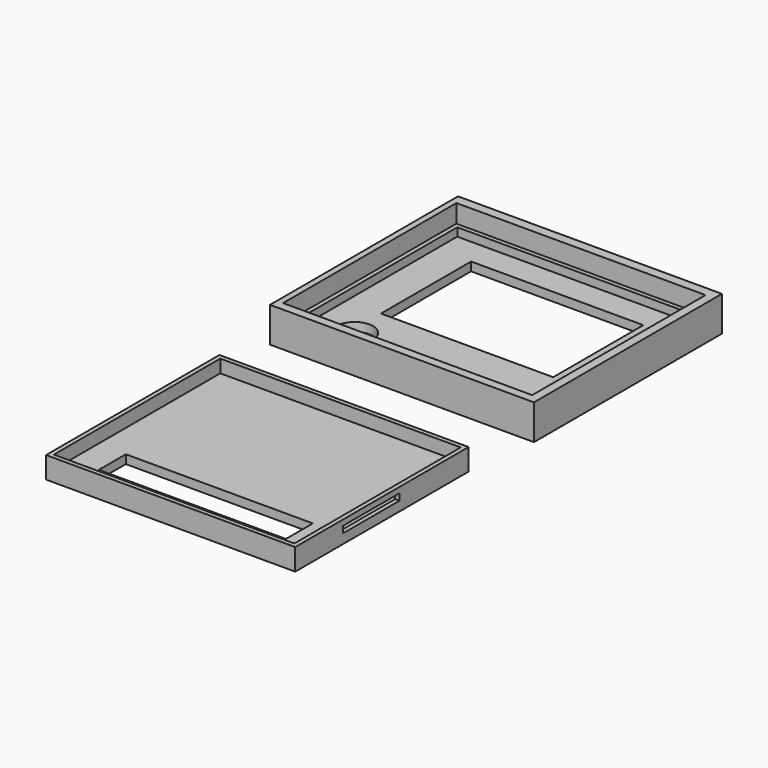
from build123d import *

# Parameters (mm, degrees)
F0_W          = 115
F0_H          = 100
F0_W_2        = 111
F0_H_2        = 96
F1_DEPTH      = 4
F2_DEPTH      = 10
F3_W          = 86.3381363451
F3_H          = 15.5545137823
F4_DEPTH      = 25.4
F5_W          = 32.6931924792
F5_H          = 3.029511543
F6_DEPTH      = 30.226
F6_DEPTH_BACK = 19.685
F7_W          = 121.8193949163
F7_H          = 108.4495782852
F7_W_2        = 115
F7_H_2        = 100
F8_DEPTH      = 8.382
F8_FACE_W     = 121.8193949163
F8_FACE_H     = 108.4495782852
F8_FACE_W_2   = 115
F8_FACE_H_2   = 100
F2_FACE1_W    = 115
F2_FACE1_H    = 100
F2_FACE1_W_2  = 111
F2_FACE1_H_2  = 96
F9_DEPTH      = 3.81
F11_W         = 121.8193949163
F11_H         = 108.4495782852
F11_W_2       = 111
F11_H_2       = 96
F11_W_3       = 79.5
F11_H_3       = 52
F11_R         = 8.5
F12_DEPTH     = 4
F14_ANGLE     = -180


with BuildPart() as f1:
    # F0 (on Top) → F1 (new body)
    with BuildSketch(Plane.XY):
        with Locations((-0.0673000515, -0.0127654523)):
            Rectangle(F0_W, F0_H)
        with Locations((-0.0673000515, -0.0127654523)):
            Rectangle(F0_W_2, F0_H_2, mode=Mode.SUBTRACT)
        with Locations((-0.0673000515, -0.0127654523)):
            Rectangle(F0_W_2, F0_H_2)
    extrude(amount=F1_DEPTH)

    # F0 (on Top) → F2 (join)
    with BuildSketch(Plane.XY):
        with Locations((-0.0673000515, -0.0127654523)):
            Rectangle(F0_W, F0_H)
        with Locations((-0.0673000515, -0.0127654523)):
            Rectangle(F0_W_2, F0_H_2, mode=Mode.SUBTRACT)
    extrude(amount=F2_DEPTH)

    # F3 (on face) → F4 (cut)
    with BuildSketch(Plane(origin=(0, 0, 0), x_dir=(1, 0, 0), z_dir=(0, 0, -1))):
        with Locations((0.4759114236, 30.3858797997)):
            Rectangle(F3_W, F3_H)
    extrude(amount=-F4_DEPTH, mode=Mode.SUBTRACT)

    # F5 (on face) → F6 (cut, two sides)
    with BuildSketch(Plane.YZ.offset(57.4326999485)) as f6_sk:
        with Locations((-6.2302281731, 5.9030133998)):
            Rectangle(F5_W, F5_H)
    extrude(amount=-F6_DEPTH, mode=Mode.SUBTRACT)
    extrude(f6_sk.sketch, amount=F6_DEPTH_BACK, mode=Mode.SUBTRACT)


with BuildPart() as f8:
    # F7 (on face) → F8 (new body)
    with BuildSketch(Plane.XY.offset(10)):
        with Locations((0.5230024904, -0.2375545949)):
            Rectangle(F7_W, F7_H)
        with Locations((-0.0673000515, -0.0127654523)):
            Rectangle(F7_W_2, F7_H_2, mode=Mode.SUBTRACT)
    extrude(amount=-F8_DEPTH)


with BuildPart() as f9:
    # F8_face (on face) + F2_face1 (on face) → F9 (new body)
    with BuildSketch(Plane(origin=(4.4899457223, -1.7481795789, 10), x_dir=(1, 0, 0), z_dir=(0, 0, 1))):
        with Locations((-3.9669432319, 1.5106249841)):
            Rectangle(F8_FACE_W, F8_FACE_H)
        with Locations((-4.5572457738, 1.7354141267)):
            Rectangle(F8_FACE_W_2, F8_FACE_H_2, mode=Mode.SUBTRACT)
    with BuildSketch(Plane(origin=(-0.0673000515, -0.0127654523, 10), x_dir=(1, 0, 0), z_dir=(0, 0, 1))):
        Rectangle(F2_FACE1_W, F2_FACE1_H)
        Rectangle(F2_FACE1_W_2, F2_FACE1_H_2, mode=Mode.SUBTRACT)
    extrude(amount=F9_DEPTH)

    # F10: union F8
    add(f8.part)

    # F11 (on face) → F12 (join)
    with BuildSketch(Plane.XY.offset(13.81)):
        with Locations((0.5230024904, -0.2375545949)):
            Rectangle(F11_W, F11_H)
        with Locations((-0.0673000515, -0.0127654523)):
            Rectangle(F11_W_2, F11_H_2, mode=Mode.SUBTRACT)
        with Locations((-0.0673000515, -0.0127654523)):
            Rectangle(F11_W_2, F11_H_2)
        with Locations((0.2105578929, -9.9623437375)):
            Rectangle(F11_W_3, F11_H_3, mode=Mode.SUBTRACT)
        with Locations((-37.5394421071, 33.7376562625)):
            Circle(F11_R, mode=Mode.SUBTRACT)
    extrude(amount=F12_DEPTH)


with BuildPart() as f9_1:
    # F14: moved
    add(f9.part.rotate(Axis((-0.6635934114, 68.3497712016, 0), (1, 0, 0)), F14_ANGLE))


with BuildPart() as f9_2:
    # F15: moved
    add(f9_1.part.moved(Location((0, 0, 17.78))))


solid = Compound([f1.part, f9_2.part])
